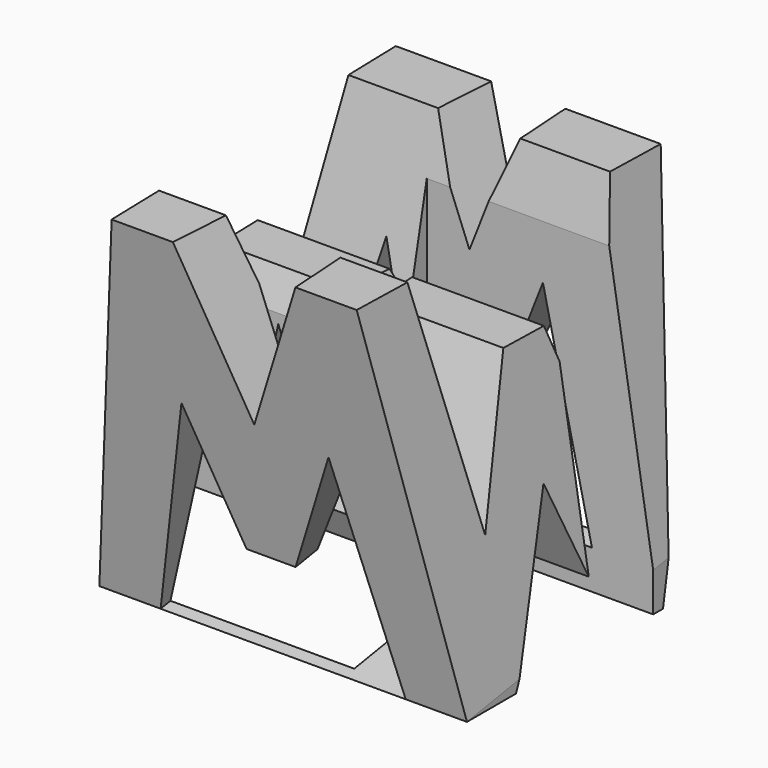
from build123d import *

# Parameters (mm, degrees)
F0_W     = 38.1
F0_H     = 38.1
F1_DEPTH = 38.1
F4_DEPTH = 38.1
F6_DEPTH = 38.1
F7_W     = 23.472134
F7_H     = 7.62
F7_W_2   = 25.4
F8_DEPTH = 38.1


with BuildPart() as f1:
    # F0 (on Front) → F1 (new body)
    with BuildSketch(Plane.XZ):
        with Locations((19.05, 19.05)):
            Rectangle(F0_W, F0_H)
    extrude(amount=F1_DEPTH)

    # F3 (on face) → F4 (cut)
    with BuildSketch(Plane.YZ.offset(38.1)):
        Polygon((-6.35, 38.1), (-31.75, 38.1), (-26.67, 14.267865), (-21.59, 28.575), (-16.51, 28.575), (-11.43, 14.267865), align=None)
        Polygon((-31.75, 0), (-38.1, 38.1), (-38.1, 0), align=None)
        Polygon((-19.05, 15.875), (-25.4, 0), (-12.7, 0), align=None)
        Polygon((0, 0), (0, 38.1), (-6.35, 0), align=None)
    extrude(amount=-F4_DEPTH, mode=Mode.SUBTRACT)

    # F5 (on face) → F6 (cut)
    with BuildSketch(Plane(origin=(0, -30.891892, -5.148649), x_dir=(1, 0, 0), z_dir=(0, -0.986394, -0.164399))):
        Polygon((11.43, 27.444668), (6.35, 5.219668), (31.75, 5.219668), (26.67, 27.444668), (21.59, 14.744668), (16.51, 14.744668), align=None)
        Polygon((25.4, 43.84521), (12.7, 43.84521), (19.05, 27.97021), align=None)
        Polygon((0, 43.84521), (0, 5.219668), (6.35, 43.84521), align=None)
        Polygon((31.75, 43.84521), (38.1, 5.219668), (38.1, 43.84521), align=None)
    extrude(amount=-F6_DEPTH, mode=Mode.SUBTRACT)

    # F7 (on offset) → F8 (cut)
    with BuildSketch(Plane.XY.offset(38.1)):
        with Locations((26.363933, -11.43)):
            Rectangle(F7_W, F7_H)
        with Locations((12.7, -26.67)):
            Rectangle(F7_W_2, F7_H)
    extrude(amount=-F8_DEPTH, mode=Mode.SUBTRACT)


solid = f1.part
